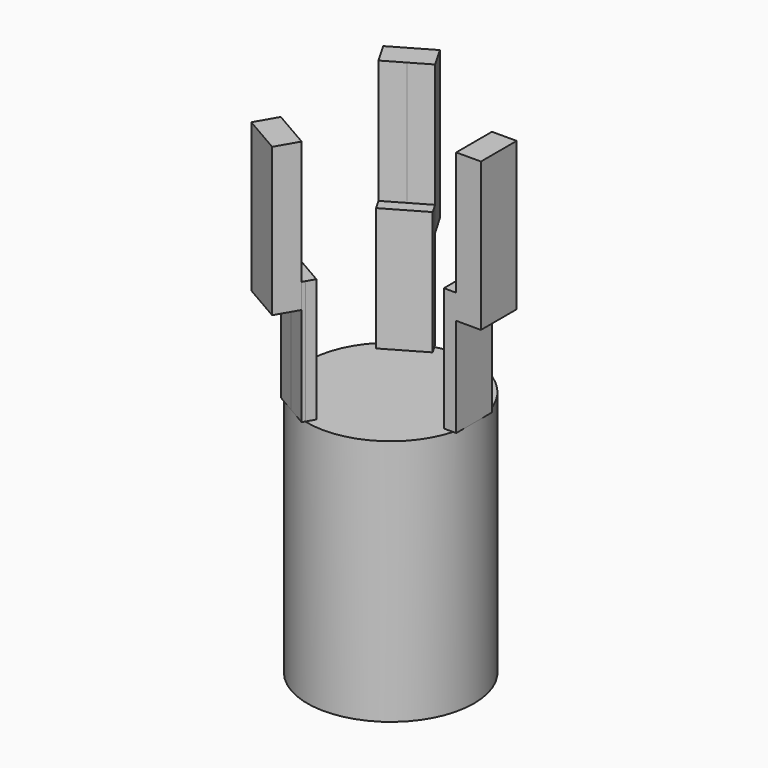
from build123d import *

# Parameters (mm, degrees)
F0_R     = 8.5725
F1_DEPTH = 25.4
F3_DEPTH = 12.7
F4_R     = 7.261951
F5_DEPTH = 19.05
F6_DEPTH = 25.4
F7_DEPTH = 10.16


with BuildPart() as f1:
    # F0 (on Top) → F1 (new body)
    with BuildSketch(Plane.XY):
        with Locations((3.447682, 0)):
            Circle(F0_R)
    extrude(amount=F1_DEPTH)

    # F2 (on face) → F3 (join)
    with BuildSketch(Plane.XY.offset(25.4)):
        with BuildLine():
            Line((-2.192824, -5.175653), (-2.671089, -6.004032))
            ThreePointArc((-2.671089, -6.004032), (-1.803051, -6.77625), (-0.838568, -7.424003))
            ThreePointArc((-0.838568, -7.424003), (0.204643, -7.935393), (1.307422, -8.301027))
            Line((1.307422, -8.301027), (1.785687, -7.472648))
            Line((1.785687, -7.472648), (-2.192824, -5.175653))
        make_face()
        with BuildLine():
            ThreePointArc((1.307422, 8.301027), (0.204643, 7.935393), (-0.838568, 7.424003))
            ThreePointArc((-0.838568, 7.424003), (-1.803396, 6.775982), (-2.671701, 6.003408))
            Line((-2.671701, 6.003408), (-2.195779, 5.173949))
            Line((-2.195779, 5.173949), (1.785687, 7.472648))
            Line((1.785687, 7.472648), (1.307422, 8.301027))
        make_face()
        with BuildLine():
            ThreePointArc((12.020182, 0), (11.941453, 1.159143), (11.706711, 2.296994))
            Line((11.706711, 2.296994), (10.750182, 2.296994))
            Line((10.750182, 2.296994), (10.750182, -2.296994))
            Line((10.750182, -2.296994), (11.706711, -2.296994))
            ThreePointArc((11.706711, -2.296994), (11.941453, -1.159143), (12.020182, 0))
        make_face()
        with BuildLine():
            Line((12.020182, 0), (12.020182, 2.296994))
            Line((12.020182, 2.296994), (11.706711, 2.296994))
            ThreePointArc((11.706711, 2.296994), (11.941453, 1.159143), (12.020182, 0))
        make_face()
        with BuildLine():
            Line((12.020182, -2.296994), (12.020182, 0))
            ThreePointArc((12.020182, 0), (11.941453, -1.159143), (11.706711, -2.296994))
            Line((11.706711, -2.296994), (12.020182, -2.296994))
        make_face()
        with BuildLine():
            Line((-2.671089, -6.004032), (-2.827824, -6.275506))
            Line((-2.827824, -6.275506), (-0.838568, -7.424003))
            ThreePointArc((-0.838568, -7.424003), (-1.803051, -6.77625), (-2.671089, -6.004032))
        make_face()
        with BuildLine():
            ThreePointArc((1.307422, -8.301027), (0.204643, -7.935393), (-0.838568, -7.424003))
            Line((-0.838568, -7.424003), (1.150687, -8.5725))
            Line((1.150687, -8.5725), (1.307422, -8.301027))
        make_face()
        with BuildLine():
            Line((1.150687, 8.5725), (-0.838568, 7.424003))
            ThreePointArc((-0.838568, 7.424003), (0.204643, 7.935393), (1.307422, 8.301027))
            Line((1.307422, 8.301027), (1.150687, 8.5725))
        make_face()
        with BuildLine():
            Line((-0.838568, 7.424003), (-2.827824, 6.275506))
            Line((-2.827824, 6.275506), (-2.671701, 6.003408))
            ThreePointArc((-2.671701, 6.003408), (-1.803396, 6.775982), (-0.838568, 7.424003))
        make_face()
    extrude(amount=F3_DEPTH)

    # F4 (on face) → F5 (cut)
    with BuildSketch(Plane(origin=(0, 0, 0), x_dir=(1, 0, 0), z_dir=(0, 0, -1))):
        with Locations((3.447682, 0)):
            Circle(F4_R)
    extrude(amount=-F5_DEPTH, mode=Mode.SUBTRACT)

    # F2 (on face) → F6 (join)
    with BuildSketch(Plane.XY.offset(25.4)):
        Polygon((-0.838568, -7.424003), (-2.827824, -6.275506), (-4.097824, -8.47521), (-0.119313, -10.772205), (1.150687, -8.5725), align=None)
        Polygon((14.560182, 2.296994), (12.020182, 2.296994), (12.020182, 0), (12.020182, -2.296994), (14.560182, -2.296994), align=None)
        Polygon((-4.097824, 8.47521), (-2.827824, 6.275506), (-0.838568, 7.424003), (1.150687, 8.5725), (-0.119313, 10.772205), align=None)
    extrude(amount=F6_DEPTH)

    # F2 (on face) → F7 (cut)
    with BuildSketch(Plane.XY.offset(25.4)):
        Polygon((-0.838568, -7.424003), (-2.827824, -6.275506), (-4.097824, -8.47521), (-0.119313, -10.772205), (1.150687, -8.5725), align=None)
        Polygon((14.560182, 2.296994), (12.020182, 2.296994), (12.020182, 0), (12.020182, -2.296994), (14.560182, -2.296994), align=None)
        Polygon((-4.097824, 8.47521), (-2.827824, 6.275506), (-0.838568, 7.424003), (1.150687, 8.5725), (-0.119313, 10.772205), align=None)
    extrude(amount=F7_DEPTH, mode=Mode.SUBTRACT)


solid = f1.part
